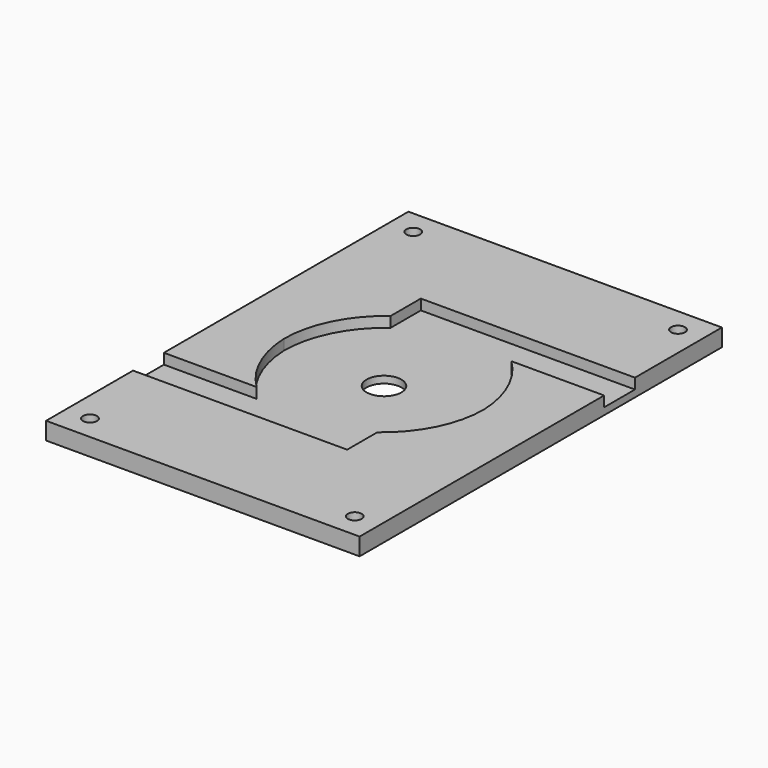
from build123d import *

# Parameters (mm, degrees)
SKETCH_W        = 90
SKETCH_H        = 130
PAD_DEPTH       = 3
PAD007_DEPTH    = 3
PAD006_DEPTH    = 3
SKETCH014_R     = 5
SKETCH014_R_2   = 2
POCKET004_DEPTH = 10
SKETCH015_W     = 131.132767
SKETCH015_H     = 1
POCKET005_DEPTH = 100


with BuildPart() as pad007:
    # Sketch → Pad (new body)
    with BuildSketch(Plane.XY):
        with Locations((45, 65)):
            Rectangle(SKETCH_W, SKETCH_H)
    extrude(amount=PAD_DEPTH)

    # Sketch006 → Pad007 (new body)
    with BuildSketch(Plane.XY.offset(3)):
        with BuildLine():
            Line((0, 0), (90, 0))
            Line((90, 0), (90, 31.200001))
            Line((90, 87.7297593266), (90, 31.200001))
            Line((63.384261619, 87.7297593266), (90, 87.7297593266))
            ThreePointArc((73.2419105019, 65.6401585516), (70.414665309, 77.6228043326), (63.384261619, 87.7297593266))
            ThreePointArc((61.470024, 41.9983394519), (70.1525128312, 52.4267750542), (73.2419105019, 65.6401585516))
            Line((61.470024, 31.2), (61.470024, 41.9983394519))
            Line((0, 31.2), (61.470024, 31.2))
            Line((0, 31.2), (0, 0))
        make_face()
    extrude(amount=PAD007_DEPTH)


with BuildPart() as pocket005:
    # Sketch008 → Pad006 (new body)
    with BuildSketch(Plane(origin=(90, 130, 3), x_dir=(-1, 0, 0), z_dir=(0, 0, 1))):
        with BuildLine():
            Line((0, 0), (90, 0))
            Line((90, 0), (90, 31.200001))
            Line((90, 87.7297593266), (90, 31.200001))
            Line((63.384261619, 87.7297593266), (90, 87.7297593266))
            ThreePointArc((73.2419105019, 65.6401585516), (70.414665309, 77.6228043326), (63.384261619, 87.7297593266))
            ThreePointArc((61.470024, 41.9983394519), (70.1525128312, 52.4267750542), (73.2419105019, 65.6401585516))
            Line((61.470024, 31.2), (61.470024, 41.9983394519))
            Line((0, 31.2), (61.470024, 31.2))
            Line((0, 31.2), (0, 0))
        make_face()
    extrude(amount=PAD006_DEPTH)

    # Fusion: union Pad007
    add(pad007.part)

    # Sketch014 → Pocket004 (cut)
    with BuildSketch(Plane(origin=(0, 0, 0), x_dir=(1, 0, 0), z_dir=(0, 0, -1))):
        with Locations((45, -65)):
            Circle(SKETCH014_R)
        with Locations((7, -7)):
            Circle(SKETCH014_R_2)
        with Locations((7, -123)):
            Circle(SKETCH014_R_2)
        with Locations((83, -123)):
            Circle(SKETCH014_R_2)
        with Locations((83, -7)):
            Circle(SKETCH014_R_2)
    extrude(amount=-POCKET004_DEPTH, mode=Mode.SUBTRACT)

    # Sketch015 → Pocket005 (cut)
    with BuildSketch(Plane(origin=(0, 0, 0), x_dir=(0, -1, 0), z_dir=(-1, 0, 0))):
        with Locations((-65.5663835, 0.5)):
            Rectangle(SKETCH015_W, SKETCH015_H)
    extrude(amount=-POCKET005_DEPTH, mode=Mode.SUBTRACT)


solid = pocket005.part
